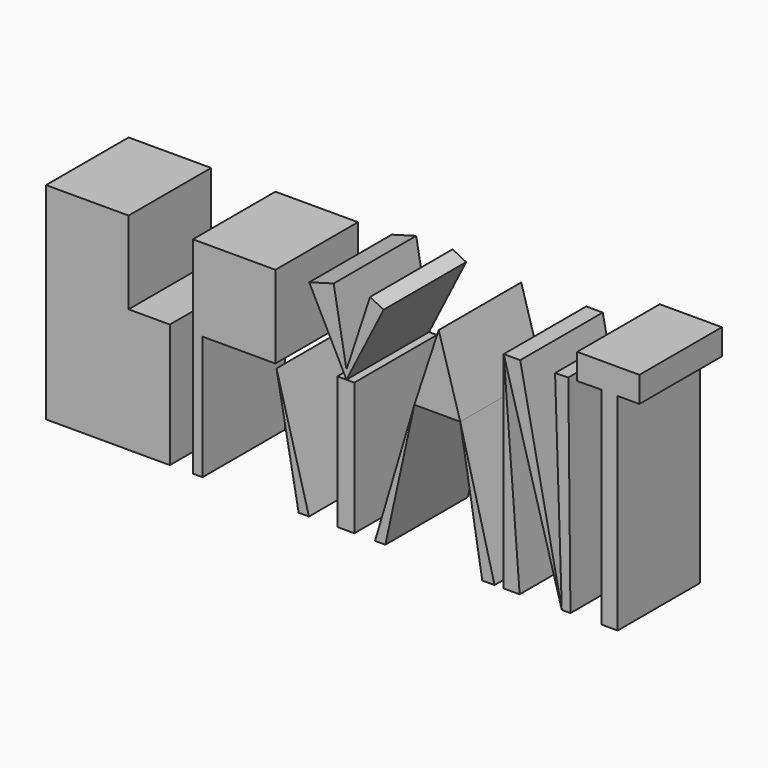
from build123d import *

# Parameters (mm, degrees)
F0_W     = 20.32
F0_H     = 20.32
F1_DEPTH = 25.4
F0_W_2   = 2.3739616048
F0_H_2   = 30.48
F0_W_3   = 1.9410408568
F0_H_3   = 32.6687979088
F0_W_4   = 2.2444559727


with BuildPart() as f1:
    # F0 (on Front) → F1 (new body)
    with BuildSketch(Plane.XZ):
        Polygon((-73.9635265827, 30.48), (-73.9635265827, 0), (-43.4835265827, 0), (-43.4835265827, 30.48), (-53.6435265827, 30.48), align=None)
        with Locations((-63.8035265827, 40.64)):
            Rectangle(F0_W, F0_H)
        Polygon((-73.9635265827, 30.48), (-73.9635265827, 0), (-43.4835265827, 0), (-43.4835265827, 30.48), (-53.6435265827, 30.48), align=None)
        with Locations((-63.8035265827, 40.64)):
            Rectangle(F0_W, F0_H)
    extrude(amount=F1_DEPTH)


with BuildPart() as f1b:
    # F0 (on Front) → F1, piece 2 (new body)
    with BuildSketch(Plane.XZ):
        Polygon((-17.4919143319, 50.8), (-37.8119143319, 50.8), (-37.8119143319, 30.48), (-35.4379527271, 30.48), (-17.4919143319, 30.48), align=None)
        with Locations((-36.6249335295, 15.24)):
            Rectangle(F0_W_2, F0_H_2)
        Polygon((-17.4919143319, 50.8), (-37.8119143319, 50.8), (-37.8119143319, 30.48), (-35.4379527271, 30.48), (-17.4919143319, 30.48), align=None)
        with Locations((-36.6249335295, 15.24)):
            Rectangle(F0_W_2, F0_H_2)
    extrude(amount=F1_DEPTH)


with BuildPart() as f1c:
    # F0 (on Front) → F1, piece 3 (new body)
    with BuildSketch(Plane.XZ):
        Polygon((-9.2367352918, 0), (-17.2283914096, 29.5070133898), (-11.7767352918, 0), align=None)
        Polygon((-9.2367352918, 0), (-17.2283914096, 29.5070133898), (-11.7767352918, 0), align=None)
    extrude(amount=F1_DEPTH)


with BuildPart() as f1d:
    # F0 (on Front) → F1, piece 4 (new body)
    with BuildSketch(Plane.XZ):
        Polygon((-3.1525824126, 52.4952739344), (-9.1739800919, 50.8), (0, 32.6687979088), (9.153141818, 50.8105286658), (5.8139392069, 52.4952739344), (0, 34.8632640513), align=None)
        Polygon((-3.1525824126, 52.4952739344), (-9.1739800919, 50.8), (0, 32.6687979088), (9.153141818, 50.8105286658), (5.8139392069, 52.4952739344), (0, 34.8632640513), align=None)
    extrude(amount=F1_DEPTH)


with BuildPart() as f1e:
    # F0 (on Front) → F1, piece 5 (new body)
    with BuildSketch(Plane.XZ):
        with Locations((0.9705204284, 16.3343989544)):
            Rectangle(F0_W_3, F0_H_3)
        with Locations((-1.1222279863, 16.3343989544)):
            Rectangle(F0_W_4, F0_H_3)
        with Locations((-1.1222279863, 16.3343989544)):
            Rectangle(F0_W_4, F0_H_3)
        with Locations((0.9705204284, 16.3343989544)):
            Rectangle(F0_W_3, F0_H_3)
    extrude(amount=F1_DEPTH)


with BuildPart() as f1f:
    # F0 (on Front) → F1, piece 6 (new body)
    with BuildSketch(Plane.XZ):
        Polygon((28.0164722353, 32.6687979088), (22.7072164416, 50.8105286658), (16.7252030224, 32.6687979088), align=None)
        Polygon((28.0164722353, 32.6687979088), (22.7072164416, 50.8105286658), (16.7252030224, 32.6687979088), align=None)
    extrude(amount=F1_DEPTH)


with BuildPart() as f1g:
    # F0 (on Front) → F1, piece 7 (new body)
    with BuildSketch(Plane.XZ):
        Polygon((36.4577621222, 0), (28.0164722353, 32.6687979088), (33.4430150688, 0), align=None)
        Polygon((36.4577621222, 0), (28.0164722353, 32.6687979088), (33.4430150688, 0), align=None)
    extrude(amount=F1_DEPTH)


with BuildPart() as f1h:
    # F0 (on Front) → F1, piece 8 (new body)
    with BuildSketch(Plane.XZ):
        Polygon((9.5743408734, 0), (16.7252030224, 32.6687979088), (7.0343408734, 0), align=None)
        Polygon((9.5743408734, 0), (16.7252030224, 32.6687979088), (7.0343408734, 0), align=None)
    extrude(amount=F1_DEPTH)


with BuildPart() as f1i:
    # F0 (on Front) → F1, piece 9 (new body)
    with BuildSketch(Plane.XZ):
        Polygon((51.3659927748, 50.8105286658), (53.0241008602, 0), (55.1524981856, 0), (54.6348481797, 50.9172017455), align=None)
        Polygon((51.3659927748, 50.8105286658), (53.0241008602, 0), (55.1524981856, 0), (54.6348481797, 50.9172017455), align=None)
    extrude(amount=F1_DEPTH)


with BuildPart() as f1j:
    # F0 (on Front) → F1, piece 10 (new body)
    with BuildSketch(Plane.XZ):
        Polygon((42.7887253463, 50.8105286658), (38.7188233435, 50.8105286658), (53.0241008602, 0), align=None)
        Polygon((42.7887253463, 50.8105286658), (38.7188233435, 50.8105286658), (53.0241008602, 0), align=None)
    extrude(amount=F1_DEPTH)


with BuildPart() as f1k:
    # F0 (on Front) → F1, piece 11 (new body)
    with BuildSketch(Plane.XZ):
        Polygon((38.7188233435, 50.8105286658), (38.7188233435, 0), (42.6379851997, 0), align=None)
        Polygon((38.7188233435, 50.8105286658), (38.7188233435, 0), (42.6379851997, 0), align=None)
    extrude(amount=F1_DEPTH)


with BuildPart() as f1l:
    # F0 (on Front) → F1, piece 12 (new body)
    with BuildSketch(Plane.XZ):
        Polygon((66.7702928185, 50.8512742817), (62.7757534385, 50.9172017455), (62.7757534385, 0), (66.7702928185, 0), align=None)
        Polygon((56.8207241595, 50.8512742817), (62.7757534385, 50.9172017455), (66.7702928185, 50.8512742817), (72.1299722791, 50.8512742817), (72.1299722791, 57.1780651808), (56.8207241595, 57.1780651808), align=None)
        Polygon((56.8207241595, 50.8512742817), (62.7757534385, 50.9172017455), (66.7702928185, 50.8512742817), (72.1299722791, 50.8512742817), (72.1299722791, 57.1780651808), (56.8207241595, 57.1780651808), align=None)
        Polygon((66.7702928185, 50.8512742817), (62.7757534385, 50.9172017455), (62.7757534385, 0), (66.7702928185, 0), align=None)
    extrude(amount=F1_DEPTH)


solid = Compound([f1.part, f1b.part, f1c.part, f1d.part, f1e.part, f1f.part, f1g.part, f1h.part, f1i.part, f1j.part, f1k.part, f1l.part])
